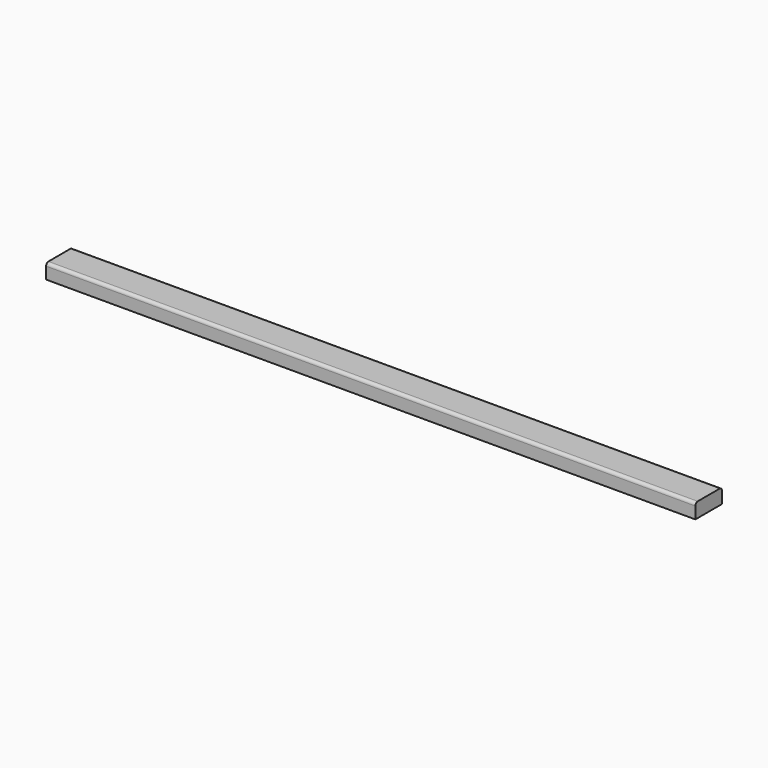
from build123d import *

# Parameters (mm, degrees)
F1_DEPTH = 880


with BuildPart() as f1:
    # F0 (on Right) → F1 (new body, symmetric)
    with BuildSketch(Plane.YZ):
        with BuildLine():
            Line((-90, 0), (0, 0))
            Line((0, 0), (0, 32))
            ThreePointArc((0, 32), (-2.343146, 37.656854), (-8, 40))
            Line((-8, 40), (-82, 40))
            ThreePointArc((-82, 40), (-87.656854, 37.656854), (-90, 32))
            Line((-90, 32), (-90, 0))
        make_face()
    extrude(amount=F1_DEPTH, both=True)


solid = f1.part
